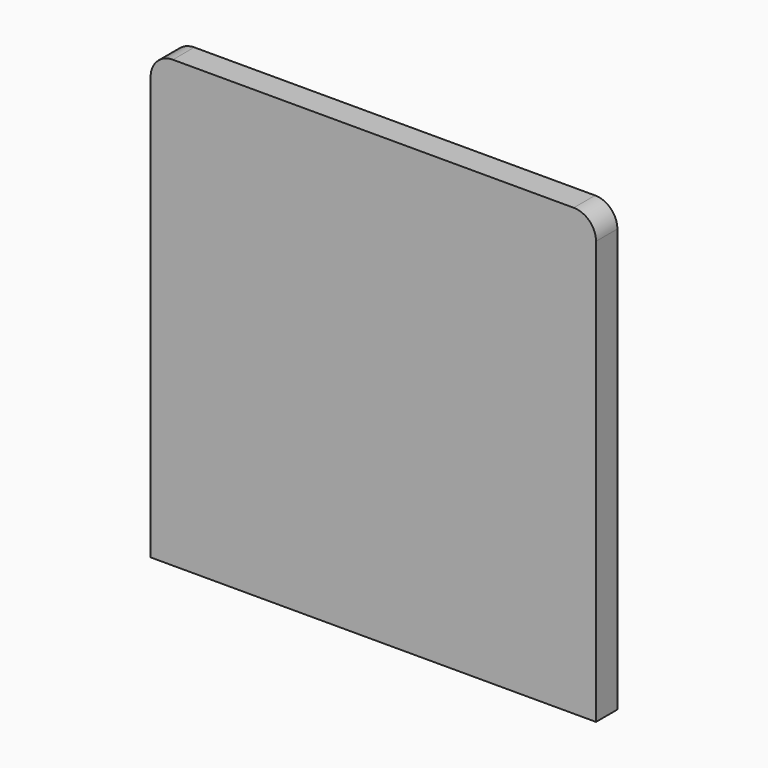
from build123d import *

# Parameters (mm, degrees)
F1_DEPTH = 6


with BuildPart() as f1:
    # F0 (on Front) → F1 (new body)
    with BuildSketch(Plane.XZ):
        with BuildLine():
            ThreePointArc((50, 45), (48.535534, 48.535534), (45, 50))
            Line((45, 50), (-2, 50))
            Line((-2, 50), (-45, 50))
            ThreePointArc((-45, 50), (-48.535534, 48.535534), (-50, 45))
            Line((-50, 45), (-50, -1.5))
            Line((-50, -1.5), (-50, -2.5))
            Line((-50, -2.5), (-50, -50))
            Line((-50, -50), (50, -50))
            Line((50, -50), (50, -2.5))
            Line((50, -2.5), (50, -1.5))
            Line((50, -1.5), (50, 45))
        make_face()
    extrude(amount=F1_DEPTH)


solid = f1.part
